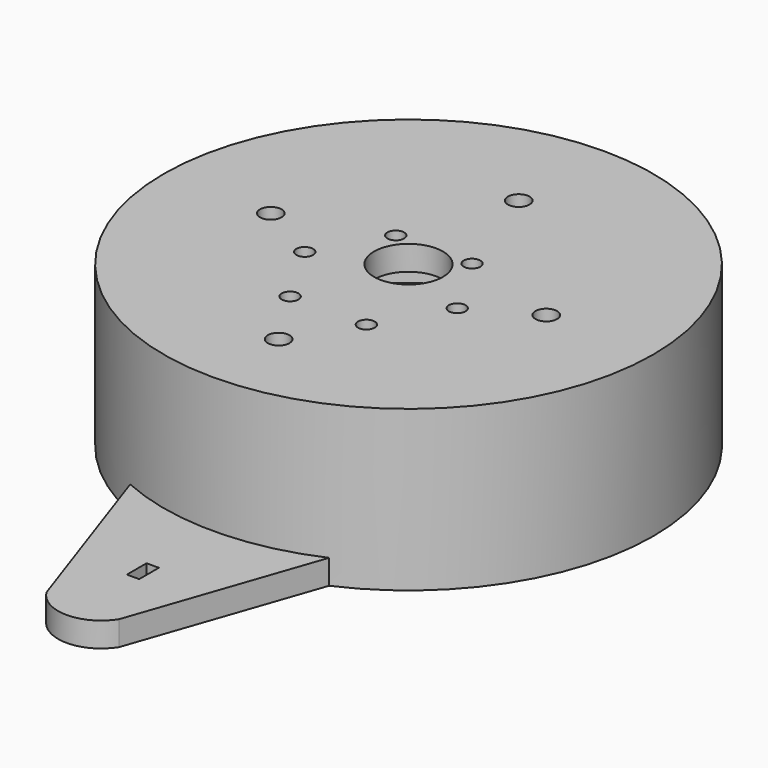
from build123d import *

# Parameters (mm, degrees)
CYLINDER008_R     = 2
CYLINDER008_DEPTH = 3.2
CYLINDER009_R     = 1.7
CYLINDER009_DEPTH = 30
CYLINDER007_R     = 37.75
CYLINDER007_DEPTH = 63
CYLINDER013_R     = 42.75
CYLINDER013_DEPTH = 45
CYLINDER012_R     = 49.75
CYLINDER012_DEPTH = 32.5
SKETCH009_R       = 2.2
POCKET008_DEPTH   = 5
POCKET010_DEPTH   = 25
PAD002_DEPTH      = 5
SKETCH018_W       = 2.5
SKETCH018_H       = 5
POCKET016_DEPTH   = 27.501
SKETCH020_R       = 4
POCKET018_DEPTH   = 5
SKETCH021_R       = 4.4
POCKET019_DEPTH   = 2.5
SKETCH022_R       = 7
POCKET020_DEPTH   = 5
SKETCH023_R       = 1.7
POCKET021_DEPTH   = 5
PAD010_DEPTH      = 15


with BuildPart() as cylinder008:
    # Cylinder008 → Cylinder008 (new body)
    with BuildSketch(Plane.XY.offset(64.8)):
        Circle(CYLINDER008_R)
    extrude(amount=CYLINDER008_DEPTH)


with BuildPart() as fusion005:
    # Cylinder009 → Cylinder009 (new body)
    with BuildSketch(Plane.XY.offset(63)):
        Circle(CYLINDER009_R)
    extrude(amount=CYLINDER009_DEPTH)

    # Fusion005: union Cylinder008
    add(cylinder008.part)


with BuildPart() as cylinder007:
    # Cylinder007 → Cylinder007 (new body)
    with BuildSketch(Plane.XY):
        Circle(CYLINDER007_R)
    extrude(amount=CYLINDER007_DEPTH)


with BuildPart() as fusion006:
    # Cylinder013 → Cylinder013 (new body)
    with BuildSketch(Plane.XY):
        Circle(CYLINDER013_R)
    extrude(amount=CYLINDER013_DEPTH)

    # Fusion006: union Cylinder007
    add(cylinder007.part)


with BuildPart() as obj1:
    # Cylinder012 → Cylinder012 (new body)
    with BuildSketch(Plane.XY.offset(35.5)):
        Circle(CYLINDER012_R)
    extrude(amount=CYLINDER012_DEPTH)

    # Cut008: cut Fusion006
    add(fusion006.part, mode=Mode.SUBTRACT)

    # Cut009: cut Fusion005
    add(fusion005.part, mode=Mode.SUBTRACT)

    # Sketch009 (on Face3 of Cut009) → Pocket008 (cut)
    with BuildSketch(Plane.XY.offset(68)):
        with Locations((0, 28)):
            Circle(SKETCH009_R)
        with Locations((28, 0)):
            Circle(SKETCH009_R)
        with Locations((0, -33)):
            Circle(SKETCH009_R)
        with Locations((-28, 0)):
            Circle(SKETCH009_R)
    extrude(amount=-POCKET008_DEPTH, mode=Mode.SUBTRACT)

    # Sketch011 → Pocket010 (cut)
    with BuildSketch(Plane(origin=(0, 60, -1), x_dir=(1, 0, 0), z_dir=(0, -1, 0))):
        with BuildLine():
            ThreePointArc((3.4, 59.599979), (1.2e-05, 63), (-3.4, 59.600003))
            Line((-3.4, 59.600003), (-3.4, 0))
            Line((-3.4, 0), (3.4, 0))
            Line((3.4, 59.599979), (3.4, 0))
        make_face()
    extrude(amount=POCKET010_DEPTH, mode=Mode.SUBTRACT)

    # Sketch017 (on Face2 of Pocket010) → Pad002 (join)
    with BuildSketch(Plane(origin=(0, 0, 35.5), x_dir=(1, 0, 0), z_dir=(0, 0, -1))):
        with BuildLine():
            ThreePointArc((20.231067, 45.395694), (-0.005277, 49.699749), (-20.240706, 45.391396))
            Line((-7.40759, 82.752427), (-20.240706, 45.391396))
            ThreePointArc((7.358623, 82.756756), (-0.025675, 86.818946), (-7.40759, 82.752427))
            Line((7.358623, 82.756756), (20.231067, 45.395694))
        make_face()
    extrude(amount=-PAD002_DEPTH)

    # Sketch018 (on Face22 of Pad002) → Pocket016 (cut, through all)
    with BuildSketch(Plane(origin=(0, 0, 63), x_dir=(1, 0, 0), z_dir=(0, 0, -1))):
        with Locations((0, 67.5)):
            Rectangle(SKETCH018_W, SKETCH018_H)
    extrude(amount=POCKET016_DEPTH, mode=Mode.SUBTRACT)

    # Sketch020 → Pocket018 (cut)
    with BuildSketch(Plane.XY.offset(68)):
        Circle(SKETCH020_R)
    extrude(amount=-POCKET018_DEPTH, mode=Mode.SUBTRACT)

    # Sketch021 (on Face26 of Pocket018) → Pocket019 (cut)
    with BuildSketch(Plane(origin=(0, 0, 63), x_dir=(1, 0, 0), z_dir=(0, 0, -1))):
        with Locations((0, 33)):
            Circle(SKETCH021_R)
        with Locations((28, 0)):
            Circle(SKETCH021_R)
        with Locations((-28, 0)):
            Circle(SKETCH021_R)
        with Locations((0, -28)):
            Circle(SKETCH021_R)
    extrude(amount=-POCKET019_DEPTH, mode=Mode.SUBTRACT)

    # Sketch022 (on Face2 of Pocket019) → Pocket020 (cut)
    with BuildSketch(Plane.XY.offset(68)):
        Circle(SKETCH022_R)
    extrude(amount=-POCKET020_DEPTH, mode=Mode.SUBTRACT)

    # Sketch023 (on Face2 of Pocket020) → Pocket021 (cut)
    with BuildSketch(Plane.XY.offset(68)):
        with Locations((-15.5, -7)):
            Circle(SKETCH023_R)
        with Locations((15.5, -7)):
            Circle(SKETCH023_R)
        with Locations((-7.75, -20.4)):
            Circle(SKETCH023_R)
        with Locations((7.75, -20.4)):
            Circle(SKETCH023_R)
        with Locations((-7.75, 6.45)):
            Circle(SKETCH023_R)
        with Locations((7.75, 6.45)):
            Circle(SKETCH023_R)
    extrude(amount=-POCKET021_DEPTH, mode=Mode.SUBTRACT)

    # Sketch051 → Pad010 (join)
    with BuildSketch(Plane(origin=(0, 0, 35.5), x_dir=(1, 0, 0), z_dir=(0, 0, -1))):
        with BuildLine():
            Line((3.4, -42), (3.4, -47))
            ThreePointArc((3.4, -47), (0, 47.122818), (-3.4, -47))
            Line((-3.4, -47), (-3.4, -42))
            ThreePointArc((3.4, -42), (0, 42.137394), (-3.4, -42))
        make_face()
    extrude(amount=-PAD010_DEPTH)


with BuildPart() as obj1_1:
    # Body001 placement: moved
    add(obj1.part.moved(Location((0, 0, -68))))


solid = obj1_1.part
